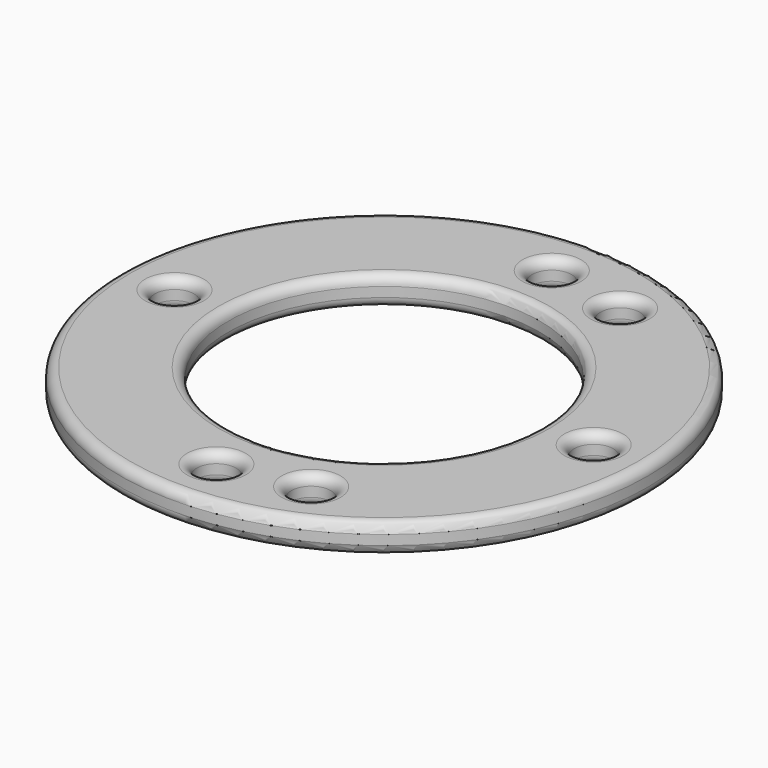
from build123d import *

# Parameters (mm, degrees)
SKETCH_R   = 53.975
SKETCH_R_2 = 31.85
SKETCH_R_3 = 4
PAD_DEPTH  = 6
FILLET_R   = 2


with BuildPart() as part:
    # Sketch → Pad (new body)
    with BuildSketch(Plane.XY):
        Circle(SKETCH_R)
        Circle(SKETCH_R_2, mode=Mode.SUBTRACT)
        with Locations((-42.8625, 0)):
            Circle(SKETCH_R_3, mode=Mode.SUBTRACT)
        with Locations((42.8625, 0)):
            Circle(SKETCH_R_3, mode=Mode.SUBTRACT)
        with Locations((0, 42.8625)):
            Circle(SKETCH_R_3, mode=Mode.SUBTRACT)
        with Locations((0, -42.8625)):
            Circle(SKETCH_R_3, mode=Mode.SUBTRACT)
        with Locations((16.66875, 39.488564)):
            Circle(SKETCH_R_3, mode=Mode.SUBTRACT)
        with Locations((16.66875, -39.488564)):
            Circle(SKETCH_R_3, mode=Mode.SUBTRACT)
    extrude(amount=PAD_DEPTH)

    # Fillet
    fillet_edges = [part.edges().sort_by_distance(p)[0] for p in [
        (-53.975, 0, 6),
        (-53.975, 0, 0),
        (-31.85, 0, 6),
        (-31.85, 0, 0),
        (38.8625, 0, 6),
        (-4, -42.8625, 6),
        (-46.8625, 0, 6),
        (-4, 42.8625, 6),
        (12.66875, -39.488564, 6),
        (12.66875, 39.488564, 6),
        (12.66875, -39.488564, 0),
        (12.66875, 39.488564, 0),
        (38.8625, 0, 0),
        (-4, -42.8625, 0),
        (-46.8625, 0, 0),
        (-4, 42.8625, 0),
    ]]
    fillet(fillet_edges, radius=FILLET_R)


solid = part.part
